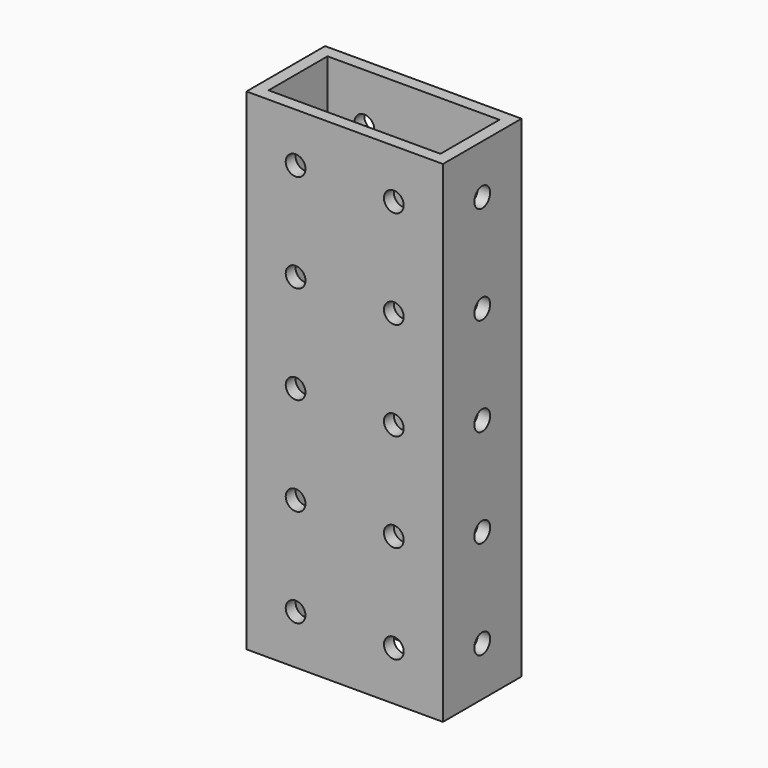
from build123d import *

# Parameters (mm, degrees)
F0_W     = 50.8
F0_H     = 25.4
F1_DEPTH = 127
F2_W     = 44.45
F2_H     = 19.05
F3_DEPTH = 127
F5_D     = 5.1054
F7_D     = 5.1054
F9_D     = 5.1054


with BuildPart() as f1:
    # F0 (on Top) → F1 (new body)
    with BuildSketch(Plane.XY):
        with Locations((6.3479, -6.781069)):
            Rectangle(F0_W, F0_H)
    extrude(amount=F1_DEPTH)

    # F2 (on face) → F3 (cut)
    with BuildSketch(Plane.XY.offset(127)):
        with Locations((6.3479, -6.781069)):
            Rectangle(F2_W, F2_H)
    extrude(amount=-F3_DEPTH, mode=Mode.SUBTRACT)

    # F5 (through all)
    with Locations(Plane.YZ):
        with Locations((-6.781069, 12.7)):
            Hole(F5_D / 2)

    # F7 (through all)
    with Locations(Plane.XZ.offset(19.481069)):
        with Locations((19.0479, 12.7), (-6.3521, 88.9), (-6.3521, 63.5), (-6.3521, 38.1), (19.0479, 88.9), (19.0479, 114.3), (-6.3521, 12.7), (-6.3521, 114.3), (19.0479, 38.1), (19.0479, 63.5)):
            Hole(F7_D / 2)

    # F9 (through all)
    with Locations(Plane(origin=(-19.0521, 0, 0), x_dir=(0, -1, 0), z_dir=(-1, 0, 0))):
        with Locations((6.781069, 88.9), (6.781069, 114.3), (6.781069, 63.5), (6.781069, 12.7), (6.781069, 38.1)):
            Hole(F9_D / 2)


solid = f1.part
